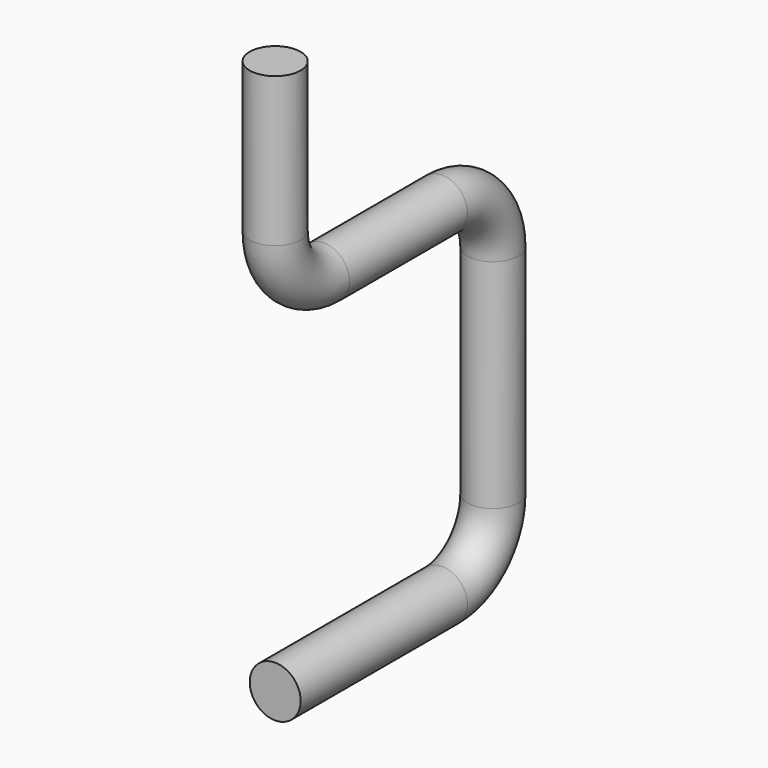
from build123d import *

# Parameters (mm, degrees)
F0_R = 101.6


with BuildPart() as f2:
    # F2: sweep along a path in F1
    with BuildLine(Plane.YZ) as f2_path:
        Line((0, 0), (832.3688709562, 0))
        ThreePointArc((832.3688709562, 0), (1011.9739933775, 74.3948775786), (1086.3688709562, 254))
        Line((1086.3688709562, 254), (1086.3688709562, 1121.2423146879))
        ThreePointArc((1086.3688709562, 1121.2423146879), (1011.9739933775, 1300.8474371093), (832.3688709562, 1375.2423146879))
        Line((832.3688709562, 1375.2423146879), (244.3128010118, 1375.2423146879))
        ThreePointArc((244.3128010118, 1375.2423146879), (71.5575626857, 1446.7998773736), (0, 1619.5551156998))
        Line((0, 1619.5551156998), (0, 2215.3844833374))
    # F0 (on Front) → F2 (sweep)
    with BuildSketch(Plane.XZ):
        Circle(F0_R)
    sweep(path=f2_path.line)


solid = f2.part
